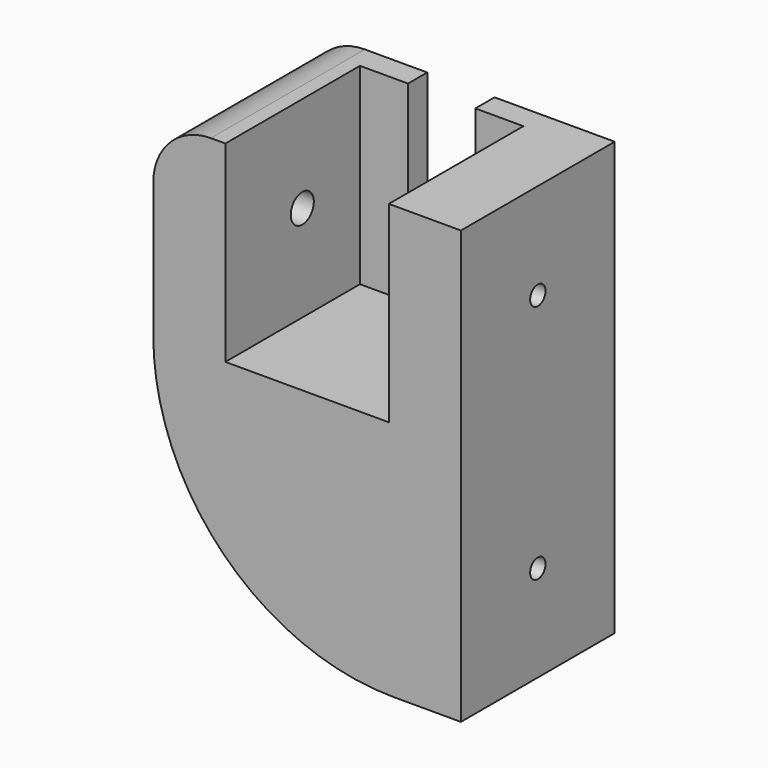
from build123d import *

# Parameters (mm, degrees)
F1_DEPTH  = 50.8
F2_DEPTH  = 6.35
F3_R      = 3.81
F4_DEPTH  = 19.05
F5_R      = 6.35
F6_DEPTH  = 6.35
F7_R      = 2.54
F8_DEPTH  = 12.701
F9_R      = 2.54
F10_DEPTH = 81.281
F9_R_2    = 6.35
F11_DEPTH = 68.58


with BuildPart() as f1:
    # F0 (on Front) → F1 (new body)
    with BuildSketch(Plane.XZ):
        with BuildLine():
            Line((0, 50.8), (0, 0))
            Line((0, 0), (-43.18, 0))
            Line((-43.18, 0), (-43.18, 50.8))
            Line((-43.18, 50.8), (-46.99, 50.8))
            ThreePointArc((-46.99, 50.8), (-57.766307, 46.336307), (-62.23, 35.56))
            Line((-62.23, 35.56), (-62.23, 0))
            ThreePointArc((-62.23, 0), (-43.631281, -44.901281), (1.27, -63.5))
            Line((1.27, -63.5), (19.05, -63.5))
            Line((19.05, -63.5), (19.05, 50.8))
            Line((19.05, 50.8), (0, 50.8))
        make_face()
    extrude(amount=F1_DEPTH)

    # F0 (on Front) → F2 (join)
    with BuildSketch(Plane.XZ):
        Polygon((-43.18, 0), (0, 0), (0, 50.8), (-12.7, 50.8), (-12.7, 12.7), (-30.48, 12.7), (-30.48, 50.8), (-43.18, 50.8), align=None)
        with BuildLine():
            Line((0, 50.8), (0, 0))
            Line((0, 0), (-43.18, 0))
            Line((-43.18, 0), (-43.18, 50.8))
            Line((-43.18, 50.8), (-46.99, 50.8))
            ThreePointArc((-46.99, 50.8), (-57.766307, 46.336307), (-62.23, 35.56))
            Line((-62.23, 35.56), (-62.23, 0))
            ThreePointArc((-62.23, 0), (-43.631281, -44.901281), (1.27, -63.5))
            Line((1.27, -63.5), (19.05, -63.5))
            Line((19.05, -63.5), (19.05, 50.8))
            Line((19.05, 50.8), (0, 50.8))
        make_face()
    extrude(amount=F2_DEPTH)

    # F3 (on face) → F4 (cut, through all)
    with BuildSketch(Plane(origin=(-62.23, 0, 0), x_dir=(0, -1, 0), z_dir=(-1, 0, 0))):
        with Locations((25.4, 25.4)):
            Circle(F3_R)
    extrude(amount=-F4_DEPTH, mode=Mode.SUBTRACT)

    # F5 (on face) → F6 (cut)
    with BuildSketch(Plane(origin=(0, 0, 0), x_dir=(0, -1, 0), z_dir=(-1, 0, 0))):
        with Locations((25.4, 25.4)):
            Circle(F5_R)
    extrude(amount=-F6_DEPTH, mode=Mode.SUBTRACT)

    # F7 (on face) → F8 (cut, through all)
    with BuildSketch(Plane(origin=(6.35, 0, 0), x_dir=(0, -1, 0), z_dir=(-1, 0, 0))):
        with Locations((25.4, 25.4)):
            Circle(F7_R)
    extrude(amount=-F8_DEPTH, mode=Mode.SUBTRACT)

    # F9 (on face) → F10 (cut, through all)
    with BuildSketch(Plane(origin=(-62.23, 0, 0), x_dir=(0, -1, 0), z_dir=(-1, 0, 0))):
        with Locations((25.4, -38.1)):
            Circle(F9_R)
    extrude(amount=-F10_DEPTH, mode=Mode.SUBTRACT)

    # F9 (on face) → F11 (cut)
    with BuildSketch(Plane(origin=(-62.23, 0, 0), x_dir=(0, -1, 0), z_dir=(-1, 0, 0))):
        with Locations((25.4, -38.1)):
            Circle(F9_R_2)
        with Locations((25.4, -38.1)):
            Circle(F9_R, mode=Mode.SUBTRACT)
    extrude(amount=-F11_DEPTH, mode=Mode.SUBTRACT)


solid = f1.part
